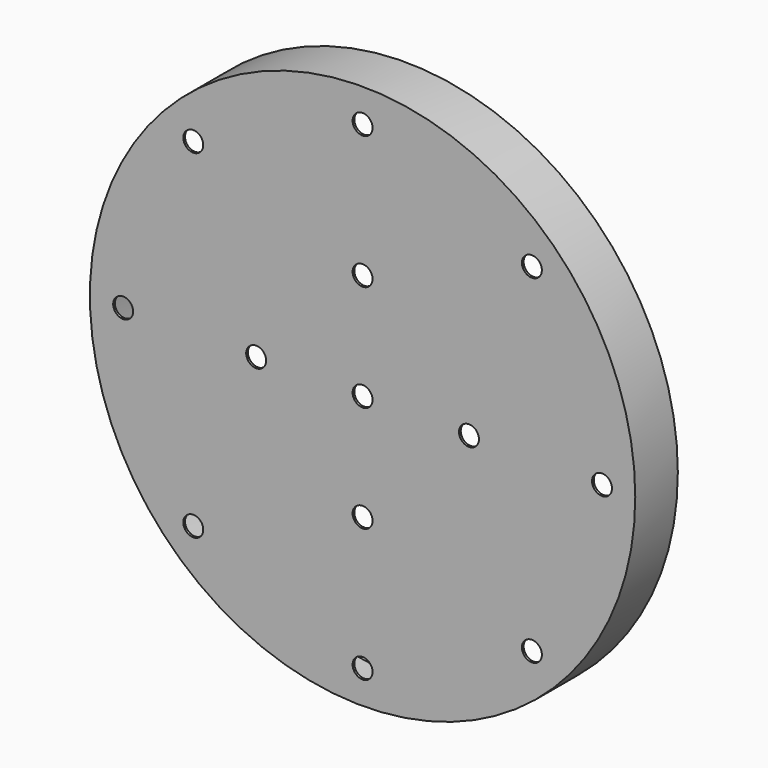
from build123d import *

# Parameters (mm, degrees)
F2_R     = 4.7625
F3_DEPTH = 1.017


with BuildPart() as f1:
    # F0 (on Top) → F1 (revolve)
    with BuildSketch(Plane.XY):
        Polygon((0, 1.016), (0, 0), (130.175, 0), (130.175, 25.4), (129.159, 25.4), (129.159, 1.016), align=None)
    revolve(axis=Axis((0, 0.508, 0), (0, 1, 0)))

    # F2 (on face) → F3 (cut, through all)
    with BuildSketch(Plane(origin=(0, 1.016, 0), x_dir=(-1, 0, 0), z_dir=(0, 1, 0))):
        Circle(F2_R)
        with Locations((0, -50.8)):
            Circle(F2_R)
        with Locations((0, -114.3)):
            Circle(F2_R)
        with Locations((-50.8, 0)):
            Circle(F2_R)
        with Locations((0, 50.8)):
            Circle(F2_R)
        with Locations((-80.822305, 80.822305)):
            Circle(F2_R)
        with Locations((80.822305, 80.822305)):
            Circle(F2_R)
        with Locations((114.3, 0)):
            Circle(F2_R)
        with Locations((80.822305, -80.822305)):
            Circle(F2_R)
        with Locations((-80.822305, -80.822305)):
            Circle(F2_R)
        with Locations((0, 114.3)):
            Circle(F2_R)
        with Locations((50.8, 0)):
            Circle(F2_R)
        with Locations((-114.3, 0)):
            Circle(F2_R)
    extrude(amount=-F3_DEPTH, mode=Mode.SUBTRACT)


solid = f1.part
